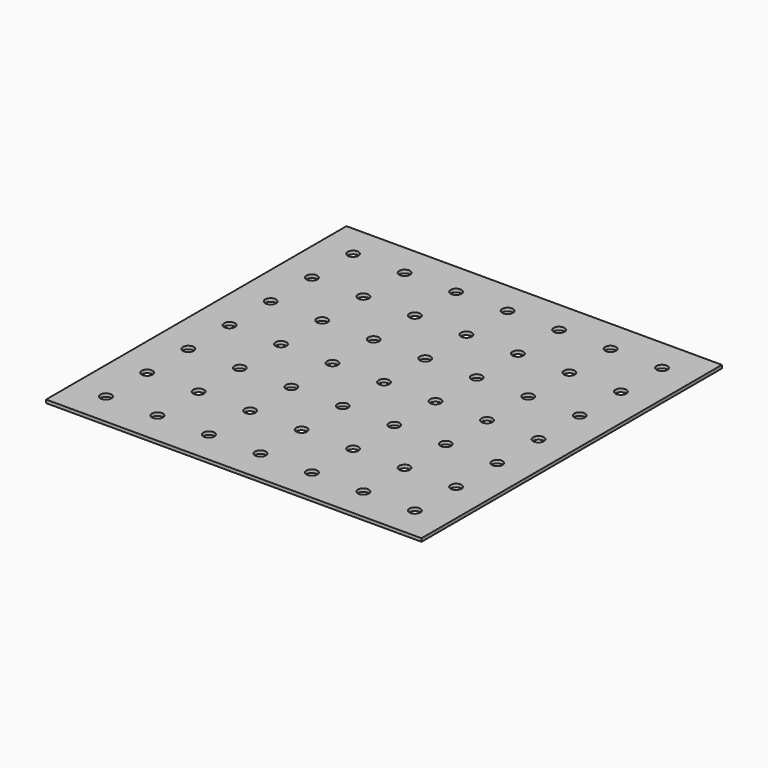
from build123d import *

# Parameters (mm, degrees)
F0_W     = 700
F0_H     = 700
F0_R     = 10.1
F1_DEPTH = 6


with BuildPart() as f1:
    # F0 (on Top) → F1 (new body)
    with BuildSketch(Plane.XY):
        Rectangle(F0_W, F0_H)
        with Locations((-288, -288)):
            Circle(F0_R, mode=Mode.SUBTRACT)
        with Locations((-192, -288)):
            Circle(F0_R, mode=Mode.SUBTRACT)
        with Locations((-288, -192)):
            Circle(F0_R, mode=Mode.SUBTRACT)
        with Locations((-192, -192)):
            Circle(F0_R, mode=Mode.SUBTRACT)
        with Locations((-96, -288)):
            Circle(F0_R, mode=Mode.SUBTRACT)
        with Locations((-96, -192)):
            Circle(F0_R, mode=Mode.SUBTRACT)
        with Locations((-288, -96)):
            Circle(F0_R, mode=Mode.SUBTRACT)
        with Locations((-192, -96)):
            Circle(F0_R, mode=Mode.SUBTRACT)
        with Locations((-96, -96)):
            Circle(F0_R, mode=Mode.SUBTRACT)
        with Locations((0, -288)):
            Circle(F0_R, mode=Mode.SUBTRACT)
        with Locations((96, -288)):
            Circle(F0_R, mode=Mode.SUBTRACT)
        with Locations((0, -192)):
            Circle(F0_R, mode=Mode.SUBTRACT)
        with Locations((96, -192)):
            Circle(F0_R, mode=Mode.SUBTRACT)
        with Locations((192, -288)):
            Circle(F0_R, mode=Mode.SUBTRACT)
        with Locations((288, -288)):
            Circle(F0_R, mode=Mode.SUBTRACT)
        with Locations((192, -192)):
            Circle(F0_R, mode=Mode.SUBTRACT)
        with Locations((288, -192)):
            Circle(F0_R, mode=Mode.SUBTRACT)
        with Locations((0, -96)):
            Circle(F0_R, mode=Mode.SUBTRACT)
        with Locations((96, -96)):
            Circle(F0_R, mode=Mode.SUBTRACT)
        with Locations((192, -96)):
            Circle(F0_R, mode=Mode.SUBTRACT)
        with Locations((288, -96)):
            Circle(F0_R, mode=Mode.SUBTRACT)
        with Locations((-288, 0)):
            Circle(F0_R, mode=Mode.SUBTRACT)
        with Locations((-192, 0)):
            Circle(F0_R, mode=Mode.SUBTRACT)
        with Locations((-288, 96)):
            Circle(F0_R, mode=Mode.SUBTRACT)
        with Locations((-192, 96)):
            Circle(F0_R, mode=Mode.SUBTRACT)
        with Locations((-96, 0)):
            Circle(F0_R, mode=Mode.SUBTRACT)
        with Locations((-96, 96)):
            Circle(F0_R, mode=Mode.SUBTRACT)
        with Locations((-288, 192)):
            Circle(F0_R, mode=Mode.SUBTRACT)
        with Locations((-192, 192)):
            Circle(F0_R, mode=Mode.SUBTRACT)
        with Locations((-288, 288)):
            Circle(F0_R, mode=Mode.SUBTRACT)
        with Locations((-192, 288)):
            Circle(F0_R, mode=Mode.SUBTRACT)
        with Locations((-96, 192)):
            Circle(F0_R, mode=Mode.SUBTRACT)
        with Locations((-96, 288)):
            Circle(F0_R, mode=Mode.SUBTRACT)
        Circle(F0_R, mode=Mode.SUBTRACT)
        with Locations((96, 0)):
            Circle(F0_R, mode=Mode.SUBTRACT)
        with Locations((0, 96)):
            Circle(F0_R, mode=Mode.SUBTRACT)
        with Locations((96, 96)):
            Circle(F0_R, mode=Mode.SUBTRACT)
        with Locations((192, 0)):
            Circle(F0_R, mode=Mode.SUBTRACT)
        with Locations((288, 0)):
            Circle(F0_R, mode=Mode.SUBTRACT)
        with Locations((192, 96)):
            Circle(F0_R, mode=Mode.SUBTRACT)
        with Locations((288, 96)):
            Circle(F0_R, mode=Mode.SUBTRACT)
        with Locations((0, 192)):
            Circle(F0_R, mode=Mode.SUBTRACT)
        with Locations((96, 192)):
            Circle(F0_R, mode=Mode.SUBTRACT)
        with Locations((0, 288)):
            Circle(F0_R, mode=Mode.SUBTRACT)
        with Locations((96, 288)):
            Circle(F0_R, mode=Mode.SUBTRACT)
        with Locations((192, 192)):
            Circle(F0_R, mode=Mode.SUBTRACT)
        with Locations((288, 192)):
            Circle(F0_R, mode=Mode.SUBTRACT)
        with Locations((192, 288)):
            Circle(F0_R, mode=Mode.SUBTRACT)
        with Locations((288, 288)):
            Circle(F0_R, mode=Mode.SUBTRACT)
    extrude(amount=F1_DEPTH)


solid = f1.part
